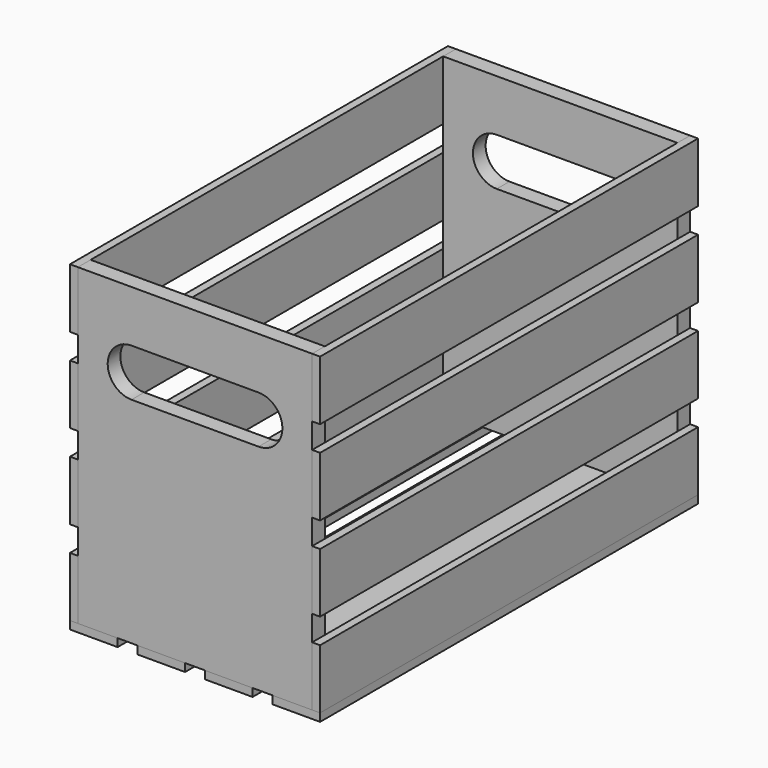
from build123d import *

# Parameters (mm, degrees)
F0_W     = 187.325
F0_H     = 250.825
F1_DEPTH = 12.7
F4_W     = 6.35
F4_H     = 47.625
F5_DEPTH = 377.825
F8_DEPTH = 377.825
F7_W     = 38.1
F7_H     = 6.35


with BuildPart() as f1:
    # F0 (on Front) → F1 (new body)
    with BuildSketch(Plane.XZ):
        with Locations((0, 125.4125)):
            Rectangle(F0_W, F0_H)
        with BuildLine():
            ThreePointArc((-50.8, 171.45), (-69.85, 190.5), (-50.8, 209.55))
            Line((-50.8, 209.55), (50.8, 209.55))
            ThreePointArc((50.8, 209.55), (69.85, 190.5), (50.8, 171.45))
            Line((50.8, 171.45), (-50.8, 171.45))
        make_face(mode=Mode.SUBTRACT)
    extrude(amount=-F1_DEPTH)


with BuildPart() as f3_1:
    # F3: instance of F1
    add(f1.part.mirror(Plane(origin=(0, 188.9125, 117.6421880034), x_dir=(1, 0, 0), z_dir=(0, -1, 0))))


with BuildPart() as f5:
    # F4 (on face) → F5 (new body, through all)
    with BuildSketch(Plane.XZ):
        with Locations((96.8375, 23.8125)):
            Rectangle(F4_W, F4_H)
    extrude(amount=-F5_DEPTH)


with BuildPart() as f5b:
    # F4 (on face) → F5, piece 2 (new body, through all)
    with BuildSketch(Plane.XZ):
        with Locations((96.8375, 227.0125)):
            Rectangle(F4_W, F4_H)
    extrude(amount=-F5_DEPTH)


with BuildPart() as f5c:
    # F4 (on face) → F5, piece 3 (new body, through all)
    with BuildSketch(Plane.XZ):
        with Locations((96.8375, 159.2791666667)):
            Rectangle(F4_W, F4_H)
    extrude(amount=-F5_DEPTH)


with BuildPart() as f5d:
    # F4 (on face) → F5, piece 4 (new body, through all)
    with BuildSketch(Plane.XZ):
        with Locations((96.8375, 91.5458333333)):
            Rectangle(F4_W, F4_H)
    extrude(amount=-F5_DEPTH)


with BuildPart() as f6_1:
    # F6: instance of F5b
    add(f5b.part.mirror(Plane.YZ))


with BuildPart() as f6_2:
    # F6: instance of F5c
    add(f5c.part.mirror(Plane.YZ))


with BuildPart() as f6_3:
    # F6: instance of F5
    add(f5.part.mirror(Plane.YZ))


with BuildPart() as f6_4:
    # F6: instance of F5d
    add(f5d.part.mirror(Plane.YZ))


with BuildPart() as f8:
    # F7 (on face) → F8 (new body, through all)
    with BuildSketch(Plane.XZ):
        Polygon((-61.9125, 0), (-93.6625, 0), (-100.0125, 0), (-100.0125, -6.35), (-61.9125, -6.35), align=None)
    extrude(amount=-F8_DEPTH)


with BuildPart() as f8b:
    # F7 (on face) → F8, piece 2 (new body, through all)
    with BuildSketch(Plane.XZ):
        Polygon((100.0125, -6.35), (100.0125, 0), (93.6625, 0), (61.9125, 0), (61.9125, -6.35), align=None)
    extrude(amount=-F8_DEPTH)


with BuildPart() as f8c:
    # F7 (on face) → F8, piece 3 (new body, through all)
    with BuildSketch(Plane.XZ):
        with Locations((-26.9875, -3.175)):
            Rectangle(F7_W, F7_H)
    extrude(amount=-F8_DEPTH)


with BuildPart() as f8d:
    # F7 (on face) → F8, piece 4 (new body, through all)
    with BuildSketch(Plane.XZ):
        with Locations((26.9875, -3.175)):
            Rectangle(F7_W, F7_H)
    extrude(amount=-F8_DEPTH)


solid = Compound([f1.part, f3_1.part, f5.part, f5b.part, f5c.part, f5d.part, f6_1.part, f6_2.part, f6_3.part, f6_4.part, f8.part, f8b.part, f8c.part, f8d.part])
